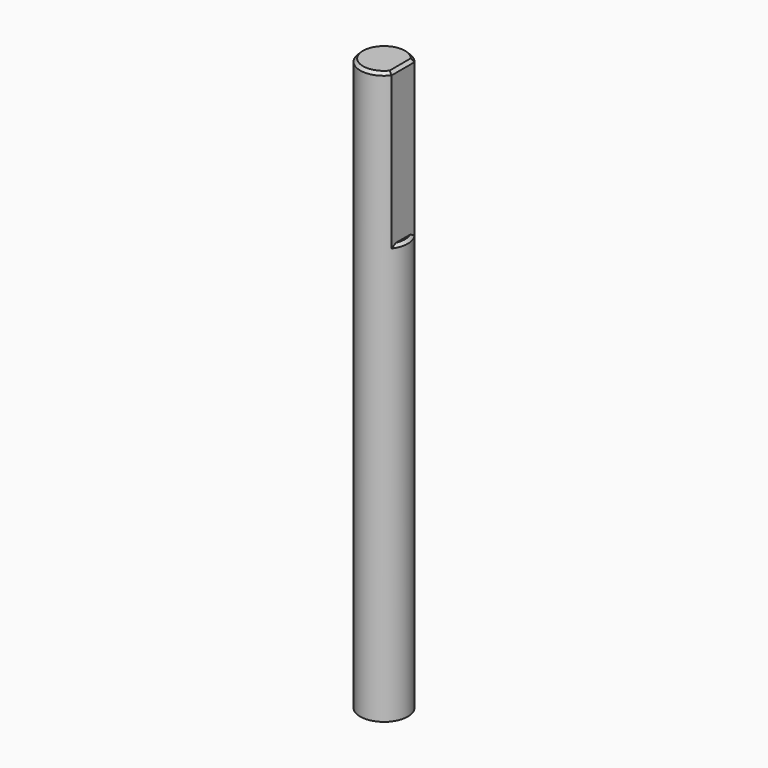
from build123d import *

# Parameters (mm, degrees)
SKETCH011_R     = 2.5
PAD005_DEPTH    = 60
SKETCH012_W     = 4
SKETCH012_H     = 4
POCKET005_DEPTH = 16
CHAMFER003_SIZE = 0.3


with BuildPart() as part:
    # Sketch011 → Pad005 (new body)
    with BuildSketch(Plane.XY):
        Circle(SKETCH011_R)
    extrude(amount=PAD005_DEPTH)

    # Sketch012 (on Face3 of Pad005) → Pocket005 (cut)
    with BuildSketch(Plane.XY.offset(60)):
        with Locations((4, 0)):
            Rectangle(SKETCH012_W, SKETCH012_H)
    extrude(amount=-POCKET005_DEPTH, mode=Mode.SUBTRACT)

    # Chamfer003
    chamfer003_edges = [part.edges().sort_by_distance(p)[0] for p in [
        (2.371708, -0.790569, 44),
        (-2.5, 0, 60),
        (2, 0, 60),
    ]]
    chamfer(chamfer003_edges, length=CHAMFER003_SIZE)


with BuildPart() as part_1:
    # Body003 placement: moved
    add(part.part.moved(Location((0, 0, 2))))


solid = part_1.part
